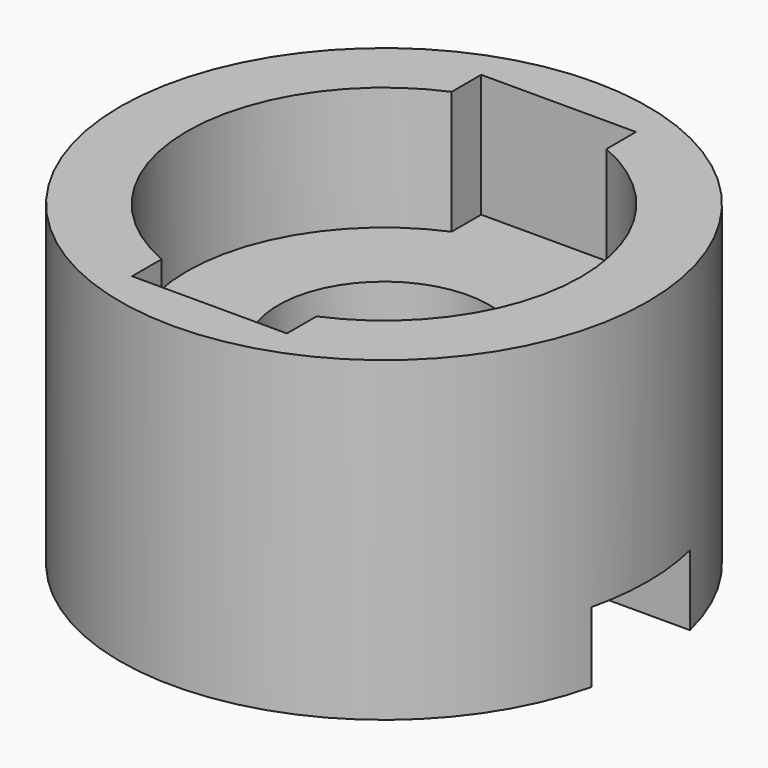
from build123d import *

# Parameters (mm, degrees)
F0_R     = 7.5
F0_W     = 1
F0_H     = 3.5
F1_DEPTH = 9
F2_W     = 3.5
F2_H     = 2
F3_DEPTH = 10
F4_W     = 1
F4_H     = 3.5
F5_DEPTH = 3.5
F6_R     = 3
F6_W     = 1
F6_H     = 3.5
F7_DEPTH = 1


with BuildPart() as f1:
    # F0 (on Top) → F1 (new body)
    with BuildSketch(Plane.XY):
        Circle(F0_R)
        Rectangle(F0_W, F0_H, mode=Mode.SUBTRACT)
    extrude(amount=F1_DEPTH)

    # F2 (on Right) → F3 (cut)
    with BuildSketch(Plane.YZ):
        with Locations((0, 1)):
            Rectangle(F2_W, F2_H)
    extrude(amount=F3_DEPTH, mode=Mode.SUBTRACT)

    # F4 (on face) → F5 (cut)
    with BuildSketch(Plane.XY.offset(9)):
        with BuildLine():
            Line((-2.2, -5.1497572758), (-2.2, 5.1497572758))
            ThreePointArc((-2.2, 5.1497572758), (-5.6, 0), (-2.2, -5.1497572758))
        make_face()
        with BuildLine():
            Line((2.2, 6.2), (-2.2, 6.2))
            Line((-2.2, 6.2), (-2.2, 5.1497572758))
            ThreePointArc((-2.2, 5.1497572758), (0, 5.6), (2.2, 5.1497572758))
            Line((2.2, 5.1497572758), (2.2, 6.2))
        make_face()
        with BuildLine():
            ThreePointArc((2.2, 5.1497572758), (0, 5.6), (-2.2, 5.1497572758))
            Line((-2.2, 5.1497572758), (-2.2, -5.1497572758))
            ThreePointArc((-2.2, -5.1497572758), (0, -5.6), (2.2, -5.1497572758))
            Line((2.2, -5.1497572758), (2.2, 5.1497572758))
        make_face()
        Rectangle(F4_W, F4_H, mode=Mode.SUBTRACT)
        with BuildLine():
            ThreePointArc((5.6, 0), (4.6733285782, 3.0854497241), (2.2, 5.1497572758))
            Line((2.2, 5.1497572758), (2.2, -5.1497572758))
            ThreePointArc((2.2, -5.1497572758), (4.6733285782, -3.0854497241), (5.6, 0))
        make_face()
        with BuildLine():
            ThreePointArc((2.2, -5.1497572758), (0, -5.6), (-2.2, -5.1497572758))
            Line((-2.2, -5.1497572758), (-2.2, -6.2))
            Line((-2.2, -6.2), (2.2, -6.2))
            Line((2.2, -6.2), (2.2, -5.1497572758))
        make_face()
    extrude(amount=-F5_DEPTH, mode=Mode.SUBTRACT)

    # F6 (on face) → F7 (cut)
    with BuildSketch(Plane.XY.offset(5.5)):
        Circle(F6_R)
        Rectangle(F6_W, F6_H, mode=Mode.SUBTRACT)
    extrude(amount=-F7_DEPTH, mode=Mode.SUBTRACT)


solid = f1.part
